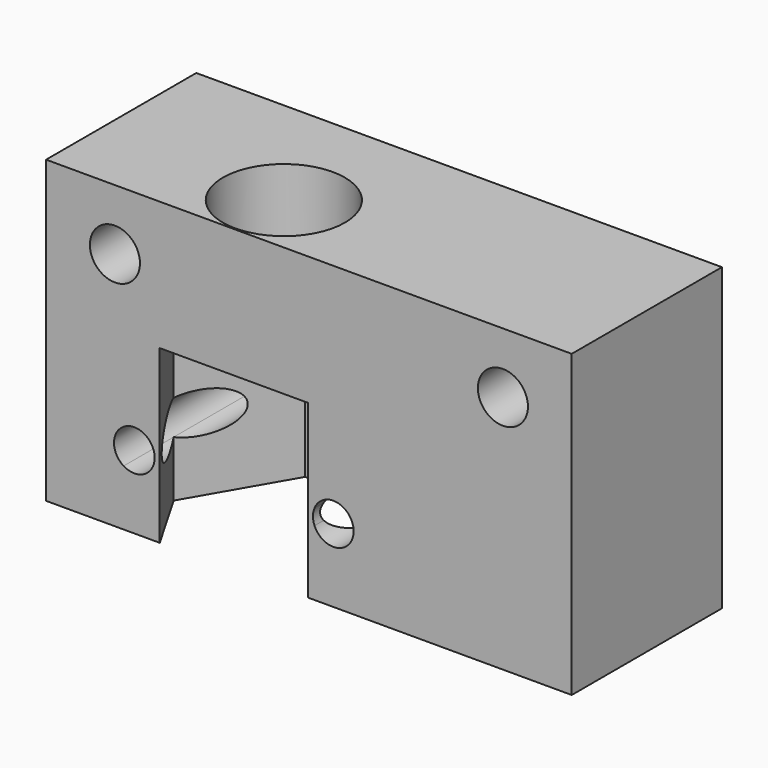
from build123d import *

# Parameters (mm, degrees)
F0_W     = 42
F0_H     = 24
F1_DEPTH = 15
F2_R     = 2
F3_DEPTH = 25
F4_R     = 4.875
F5_DEPTH = 10.3
F6_R     = 4.875
F7_DEPTH = 13.7
F9_DEPTH = 25


with BuildPart() as f1:
    # F0 (on Front) → F1 (new body)
    with BuildSketch(Plane.XZ):
        with Locations((21, 12)):
            Rectangle(F0_W, F0_H)
    extrude(amount=F1_DEPTH)

    # F2 (on face) → F3 (cut)
    with BuildSketch(Plane.XZ.offset(15)):
        with Locations((5.5, 19.15)):
            Circle(F2_R)
        with Locations((36.5, 19.15)):
            Circle(F2_R)
    extrude(amount=-F3_DEPTH, mode=Mode.SUBTRACT)

    # F4 (on face) → F5 (cut)
    with BuildSketch(Plane.XY.offset(24)):
        with Locations((15, -10)):
            Circle(F4_R)
    extrude(amount=-F5_DEPTH, mode=Mode.SUBTRACT)

    # F6 (on face) → F7 (cut, through all)
    with BuildSketch(Plane(origin=(0, 0, 0), x_dir=(1, 0, 0), z_dir=(0, 0, -1))):
        Polygon((20.9178402592, 15), (9.0821597408, 15), (6.1954083949, 10), (10.5977041974, 2.375), (19.4022958026, 2.375), (23.8045916051, 10), align=None)
        with Locations((15, 10)):
            Circle(F6_R, mode=Mode.SUBTRACT)
        with Locations((15, 10)):
            Circle(F6_R)
    extrude(amount=-F7_DEPTH, mode=Mode.SUBTRACT)

    # F8 (on face) → F9 (cut)
    with BuildSketch(Plane.XZ.offset(15)):
        with BuildLine():
            ThreePointArc((6.1954083949, 7.2318827736), (5.4254083949, 5.85), (6.1954083949, 4.4681172264))
            Line((6.1954083949, 4.4681172264), (6.1954083949, 7.2318827736))
        make_face()
        with BuildLine():
            ThreePointArc((8.5504083949, 6.475), (8.1994569143, 6.9990485194), (7.6754083949, 7.35))
            Line((7.6754083949, 7.35), (6.4254083949, 7.35))
            ThreePointArc((6.4254083949, 7.35), (6.3080554331, 7.2955231165), (6.1954083949, 7.2318827736))
            Line((6.1954083949, 7.2318827736), (6.1954083949, 4.4681172264))
            ThreePointArc((6.1954083949, 4.4681172264), (7.5476247796, 4.3029379887), (8.5504083949, 5.225))
            Line((8.5504083949, 5.225), (8.5504083949, 6.475))
        make_face()
        with BuildLine():
            Line((6.4254083949, 7.35), (7.6754083949, 7.35))
            ThreePointArc((7.6754083949, 7.35), (7.0504083949, 7.475), (6.4254083949, 7.35))
        make_face()
        with BuildLine():
            ThreePointArc((8.6754083949, 5.85), (8.6438519929, 6.1686887196), (8.5504083949, 6.475))
            Line((8.5504083949, 6.475), (8.5504083949, 5.225))
            ThreePointArc((8.5504083949, 5.225), (8.6438519929, 5.5313112804), (8.6754083949, 5.85))
        make_face()
        with BuildLine():
            ThreePointArc((21.4504083949, 6.475), (21.3254083949, 5.85), (21.4504083949, 5.225))
            Line((21.4504083949, 5.225), (21.4504083949, 6.475))
        make_face()
        with BuildLine():
            Line((22.3254083949, 7.35), (23.5754083949, 7.35))
            ThreePointArc((23.5754083949, 7.35), (22.9504083949, 7.475), (22.3254083949, 7.35))
        make_face()
        with BuildLine():
            ThreePointArc((24.5754083949, 5.85), (24.3696815745, 6.6413840039), (23.8045916051, 7.2323878049))
            Line((23.8045916051, 7.2323878049), (23.8045916051, 4.4676121951))
            ThreePointArc((23.8045916051, 4.4676121951), (24.3696815745, 5.0586159961), (24.5754083949, 5.85))
        make_face()
        with BuildLine():
            Line((23.8045916051, 4.4676121951), (23.8045916051, 7.2323878049))
            ThreePointArc((23.8045916051, 7.2323878049), (23.6923341994, 7.2957424046), (23.5754083949, 7.35))
            Line((23.5754083949, 7.35), (22.3254083949, 7.35))
            ThreePointArc((22.3254083949, 7.35), (21.8013598754, 6.9990485194), (21.4504083949, 6.475))
            Line((21.4504083949, 6.475), (21.4504083949, 5.225))
            ThreePointArc((21.4504083949, 5.225), (22.4527349043, 4.3030849743), (23.8045916051, 4.4676121951))
        make_face()
    extrude(amount=-F9_DEPTH, mode=Mode.SUBTRACT)


solid = f1.part
